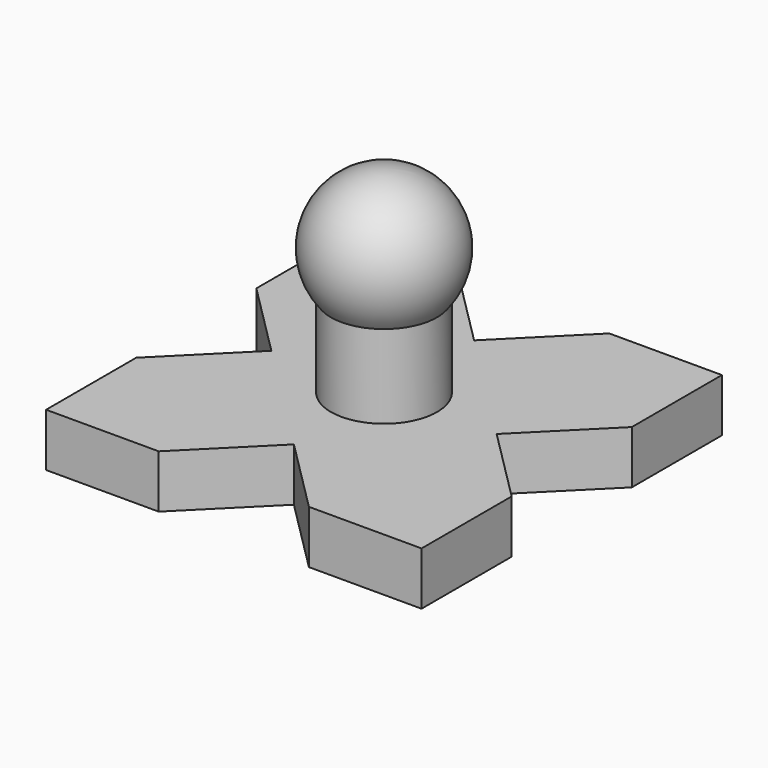
from build123d import *

# Parameters (mm, degrees)
CYLINDER011_R            = 5
CYLINDER011_DEPTH        = 15
PAD_DEPTH                = 5
ARRAY006_COUNT           = 4
CLONE018_PLACEMENT_ANGLE = 45


with BuildPart() as cylinder011:
    # Cylinder011 → Cylinder011 (new body)
    with BuildSketch(Plane.XY):
        Circle(CYLINDER011_R)
    extrude(amount=CYLINDER011_DEPTH)


with BuildPart() as sphere:
    # Sphere → Sphere (revolve)
    with BuildSketch(Plane(origin=(0, 0, 17), x_dir=(1, 0, 0), z_dir=(0, -1, 0))):
        with BuildLine():
            ThreePointArc((0, -6.5), (6.5, 0), (0, 6.5))
            Line((0, 6.5), (0, -6.5))
        make_face()
    revolve(axis=Axis((0, 0, 17), (0, 0, 1)))


with BuildPart() as obj1:
    # Sketch → Pad (new body)
    with BuildSketch(Plane.XY):
        Polygon((0, 7.5), (17.5, 7.5), (25, 0), (17.5, -7.5), (0, -7.5), align=None)
    extrude(amount=PAD_DEPTH)

    # Array006: obj1 ×4 about axis
    array006_axis = Axis((0, 0, 0), (0, 0, 1))


with BuildPart() as obj1_1:
    add(obj1.part)
    for i in range(1, ARRAY006_COUNT):
        add(obj1.part.rotate(array006_axis, i * 360 / ARRAY006_COUNT))

    # Fusion017: union Cylinder011, Sphere
    add(cylinder011.part)
    add(sphere.part)


with BuildPart() as obj1_2:
    # Clone018 placement: moved
    add(obj1_1.part.moved(Location((60, 110, 21.5))).rotate(Axis((60, 110, 21.5), (0, 0, 1)), CLONE018_PLACEMENT_ANGLE))


solid = obj1_2.part
